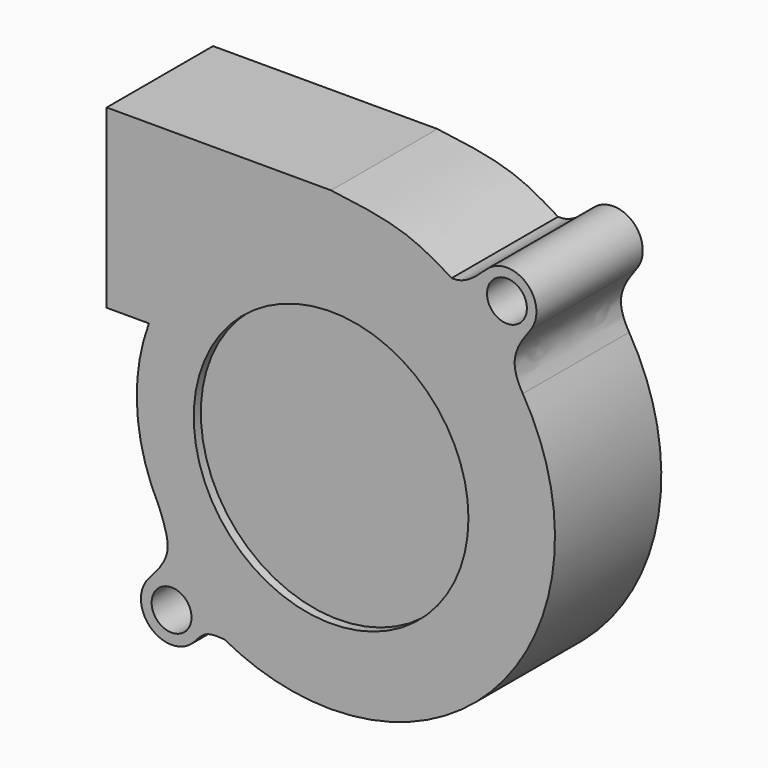
from build123d import *

# Parameters (mm, degrees)
F0_R     = 2.25
F1_DEPTH = 15
F2_R     = 15.5
F3_DEPTH = 1


with BuildPart() as f1:
    # F0 (on Front) → F1 (new body)
    with BuildSketch(Plane.XZ):
        with BuildLine():
            add(Edge.make_bspline(
                [(50.3479777806, -2.8862454928), (53.268195878, -3.261348037), (58.6611963596, -3.9533176417), (62.2933460238, -6.1636902612), (63.9588082608, -7.1761531808)],
                knots=[0, 0, 0, 0, 0.5415192792, 1, 1, 1, 1], degree=3))
            Line((50.3479777806, -2.8862454928), (25.0282175839, -2.8862454928))
            Line((25.0282175839, -2.8862454928), (25.0282175839, -22.7884277701))
            Line((25.0282175839, -22.7884277701), (29.7951731688, -22.7884277701))
            ThreePointArc((29.7951731688, -22.7884277701), (28.4636985284, -31.7867677512), (30.8986199162, -40.5511333853))
            add(Edge.make_bspline(
                [(29.8397061446, -48.0479822571), (30.7470532857, -47.0116302158), (32.6276335059, -44.8769054108), (31.4765020534, -42.024639753), (30.8986199162, -40.5511333853)],
                knots=[0, 0, 0, 0, 0.485392469, 1, 1, 1, 1], degree=3))
            ThreePointArc((29.8397061446, -48.0479822571), (29.9610414714, -52.9277231917), (34.8411419508, -52.8218309708))
            add(Edge.make_bspline(
                [(34.8411419508, -52.8218309708), (34.9156373522, -52.7356864932), (34.9901022249, -52.6494127513), (35.065109933, -52.5643533984)],
                knots=[0, 0, 0, 0, 0.0825218812, 0.0825218812, 0.0825218812, 0.0825218812], degree=3))
            add(Edge.make_bspline(
                [(35.065109933, -52.5643533984), (35.4412326082, -52.1378272164), (36.3054316166, -51.2598405123), (37.5921223548, -51.3648089629), (38.303234242, -51.4084192455)],
                knots=[0.0825218812, 0.0825218812, 0.0825218812, 0.0825218812, 0.4963240293, 1, 1, 1, 1], degree=3))
            ThreePointArc((38.303234242, -51.4084192455), (44.0362215273, -53.6423292578), (50.1387902983, -54.4272824743))
            Line((50.1387902983, -54.4272824743), (50.4479777806, -54.4272824743))
            ThreePointArc((50.4479777806, -54.4272824743), (72.3721230889, -41.4992868245), (71.9812678774, -16.0503487087))
            add(Edge.make_bspline(
                [(72.8356159841, -9.4444898754), (71.9013864052, -10.6696925545), (70.5245996547, -12.8306913276), (71.3883715318, -15.0658070668), (71.9812678774, -16.0503487087)],
                knots=[0, 0, 0, 0, 0.524822635, 1, 1, 1, 1], degree=3))
            ThreePointArc((72.8356159841, -9.4444898754), (72.3990680605, -4.9396508075), (67.8742152822, -5.0389304732))
            add(Edge.make_bspline(
                [(67.8742152822, -5.0389304732), (66.812715433, -6.0682372602), (65.5657418957, -7.1263163681), (64.1965142668, -7.1894367778), (63.9588082608, -7.1761531808)],
                knots=[0, 0, 0, 0, 0.5190595992, 0.6268019641, 0.6268019641, 0.6268019641, 0.6268019641], degree=3))
        make_face()
        with Locations((32.3479777806, -50.4269927665)):
            Circle(F0_R, mode=Mode.SUBTRACT)
        with BuildLine():
            ThreePointArc((50.3479777806, -14.9272824743), (61.308132889, -19.4671273659), (65.8479777806, -30.4272824743))
            ThreePointArc((65.8479777806, -30.4272824743), (39.3878226722, -41.3874375827), (50.3479777806, -14.9272824743))
        make_face(mode=Mode.SUBTRACT)
        with Locations((70.1901335806, -7.4272824743)):
            Circle(F0_R, mode=Mode.SUBTRACT)
        with BuildLine():
            ThreePointArc((50.3479777806, -14.9272824743), (39.3878226722, -41.3874375827), (65.8479777806, -30.4272824743))
            ThreePointArc((65.8479777806, -30.4272824743), (61.308132889, -19.4671273659), (50.3479777806, -14.9272824743))
        make_face()
        with BuildLine():
            ThreePointArc((63.3479777806, -30.4272824743), (41.1555896252, -39.6196706298), (50.3479777806, -17.4272824743))
            ThreePointArc((50.3479777806, -17.4272824743), (59.5403659361, -21.2348943189), (63.3479777806, -30.4272824743))
        make_face(mode=Mode.SUBTRACT)
        with BuildLine():
            ThreePointArc((63.3479777806, -30.4272824743), (59.5403659361, -21.2348943189), (50.3479777806, -17.4272824743))
            ThreePointArc((50.3479777806, -17.4272824743), (41.1555896252, -39.6196706298), (63.3479777806, -30.4272824743))
        make_face()
        with BuildLine():
            add(Edge.make_bspline(
                [(34.8411419508, -52.8218309708), (34.9156373522, -52.7356864932), (34.9901022249, -52.6494127513), (35.065109933, -52.5643533984)],
                knots=[0, 0, 0, 0, 0.0825218812, 0.0825218812, 0.0825218812, 0.0825218812], degree=3))
            ThreePointArc((34.8411419508, -52.8218309708), (34.956304949, -52.6958574577), (35.065109933, -52.5643533984))
        make_face()
        with BuildLine():
            ThreePointArc((50.1387902983, -54.4272824743), (50.2933840395, -54.4277544812), (50.4479777806, -54.4272824743))
            Line((50.4479777806, -54.4272824743), (50.1387902983, -54.4272824743))
        make_face()
    extrude(amount=F1_DEPTH)

    # F2 (on face) → F3 (cut)
    with BuildSketch(Plane.XZ.offset(15)):
        with Locations((50.3479777806, -30.4272824743)):
            Circle(F2_R)
    extrude(amount=-F3_DEPTH, mode=Mode.SUBTRACT)


solid = f1.part
